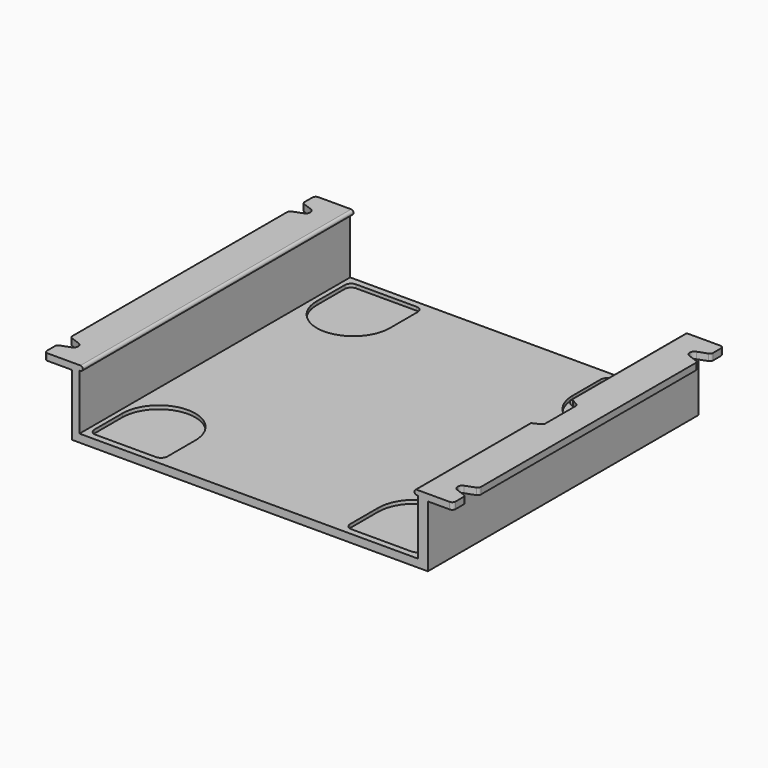
from build123d import *

# Parameters (mm, degrees)
PAD001_DEPTH         = 53.3
PAD002_DEPTH         = 53.3
POCKET_DEPTH         = 18
POCKET001_DEPTH      = 5
SKETCH_W             = 0.8
SKETCH_H             = 19.4
PAD_DEPTH            = 53.3
POCKET004_DEPTH      = 19.401
POCKET004_DEPTH_BACK = -2.101
FILLET_R             = 1
FILLET001_R          = 1


with BuildPart() as part:
    # Sketch001 → Pad001 (new body, symmetric)
    with BuildSketch(Plane.XZ):
        Polygon((64.35, 0), (55.65, 0), (55.65, -19.4), (0, -19.4), (0, -16.9), (53.3, -16.9), (53.3, 2.1), (64.35, 2.1), align=None)
    pad001 = extrude(amount=PAD001_DEPTH, both=True)

    # Sketch002 → Pad002 (join, symmetric)
    with BuildSketch(Plane.XZ):
        with BuildLine():
            ThreePointArc((53, 2.1), (52.25, 1.35), (53, 0.6))
            Line((53.3, 0.6), (53, 0.6))
            Line((53.3, 2.1), (53.3, 0.6))
            Line((53.3, 2.1), (53, 2.1))
        make_face()
    pad002 = extrude(amount=PAD002_DEPTH, both=True)

    # Sketch003 → Pocket (cut)
    with BuildSketch(Plane.XY):
        with BuildLine():
            ThreePointArc((28.8, 38.3), (40.3, 26.8), (51.8, 38.3))
            Line((51.8, 38.3), (51.8, 49.3))
            ThreePointArc((51.8, 49.3), (51.214214, 50.714214), (49.8, 51.3))
            Line((30.8, 51.3), (49.8, 51.3))
            ThreePointArc((30.8, 51.3), (29.385786, 50.714214), (28.8, 49.3))
            Line((28.8, 38.3), (28.8, 49.3))
        make_face()
        with BuildLine():
            ThreePointArc((51.8, -38.3), (40.3, -26.8), (28.8, -38.3))
            Line((28.8, -38.3), (28.8, -49.3))
            ThreePointArc((28.8, -49.3), (29.385786, -50.714214), (30.8, -51.3))
            Line((30.8, -51.3), (49.8, -51.3))
            ThreePointArc((49.8, -51.3), (51.214214, -50.714214), (51.8, -49.3))
            Line((51.8, -38.3), (51.8, -49.3))
        make_face()
    pocket = extrude(amount=-POCKET_DEPTH, mode=Mode.SUBTRACT)

    # Sketch004 → Pocket001 (cut)
    with BuildSketch(Plane.XY):
        with BuildLine():
            ThreePointArc((59.8, -45.8), (60.053187, -46.603007), (60.721172, -47.11557))
            Line((60.721172, -47.11557), (64.5, -48.490951))
            Line((64.5, -42.959049), (64.5, -48.490951))
            Line((60.721172, -44.33443), (64.5, -42.959049))
            ThreePointArc((60.721172, -44.33443), (60.053187, -44.846993), (59.8, -45.65))
            Line((59.8, -45.65), (59.8, -45.8))
        make_face()
        with BuildLine():
            ThreePointArc((60.721172, 47.11557), (60.053187, 46.603007), (59.8, 45.8))
            Line((59.8, 45.8), (59.8, 45.65))
            ThreePointArc((59.8, 45.65), (60.053187, 44.846993), (60.721172, 44.33443))
            Line((60.721172, 44.33443), (64.5, 42.959049))
            Line((64.5, 48.490951), (64.5, 42.959049))
            Line((60.721172, 47.11557), (64.5, 48.490951))
        make_face()
    pocket001 = extrude(amount=POCKET001_DEPTH, mode=Mode.SUBTRACT)

    # Mirrored: Pad001, Pad002, Pocket, Pocket001 across YZ
    add(pad001.mirror(Plane.YZ))
    add(pad002.mirror(Plane.YZ))
    add(pocket.mirror(Plane.YZ), mode=Mode.SUBTRACT)
    add(pocket001.mirror(Plane.YZ), mode=Mode.SUBTRACT)

    # Sketch → Pad (join, symmetric)
    with BuildSketch(Plane.XZ):
        with Locations((56.05, -9.7)):
            Rectangle(SKETCH_W, SKETCH_H)
    extrude(amount=PAD_DEPTH, both=True)

    # Sketch005 → Pocket004 (cut, two sides)
    with BuildSketch(Plane.XY) as pocket004_sk:
        Polygon((47.3, -7.856773), (47.3, 7.856773), (53.3, 7.856773), (55.65, 6.5), (55.65, -6.5), (53.3, -7.856773), align=None)
    extrude(amount=-POCKET004_DEPTH, mode=Mode.SUBTRACT)
    extrude(pocket004_sk.sketch, amount=-POCKET004_DEPTH_BACK, mode=Mode.SUBTRACT)

    # Fillet
    fillet_edges = [part.edges().sort_by_distance(p)[0] for p in [
        (64.35, -53.3, 1.05),
        (64.35, -43.013645, 1.05),
        (64.35, -48.436355, 1.05),
        (64.35, 43.013645, 1.05),
        (64.35, 48.436355, 1.05),
        (64.35, 53.3, 1.05),
        (-64.35, 53.3, 1.05),
        (-64.35, 48.436355, 1.05),
        (-64.35, 43.013645, 1.05),
        (-64.35, -48.436355, 1.05),
        (-64.35, -53.3, 1.05),
        (-64.35, -43.013645, 1.05),
    ]]
    fillet(fillet_edges, radius=FILLET_R)

    # Fillet001
    fillet001_edges = [part.edges().sort_by_distance(p)[0] for p in [
        (55.65, -6.5, -8.65),
        (55.65, 6.5, -8.65),
        (47.3, -7.856773, -18.15),
        (47.3, 7.856773, -18.15),
    ]]
    fillet(fillet001_edges, radius=FILLET001_R)


solid = part.part
